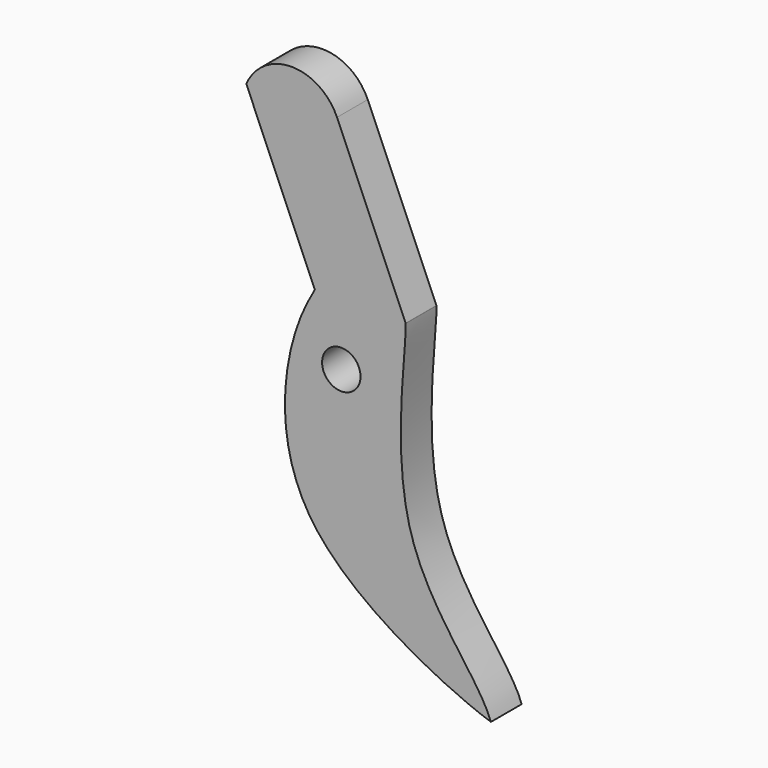
from build123d import *

# Parameters (mm, degrees)
F1_DEPTH = 6.35
F3_DEPTH = 6.35
F4_R     = 3.175
F5_DEPTH = 25.4


with BuildPart() as f1:
    # F0 (on Front) → F1 (new body)
    with BuildSketch(Plane.XZ):
        with BuildLine():
            Line((14.9751729332, -0.0525450014), (0, 0))
            add(Edge.make_bspline(
                [(0, 0), (-1.3668231297, -2.3331721875), (-5.2378895093, -10.0511172277), (-6.4457044175, -37.83273039), (22.8338454247, -51.3333554001), (29.0720630437, -53.3747412264)],
                knots=[0, 0, 0, 0, 0.2289680224, 0.5830056766, 1, 1, 1, 1], degree=3))
            add(Edge.make_bspline(
                [(14.9751729332, -0.0525450014), (15.2322824358, -3.22988805), (10.116460043, -33.133102304), (26.89550583, -47.4094833328), (29.0720630437, -53.3747412264)],
                knots=[0, 0, 0, 0, 0.5109782958, 1, 1, 1, 1], degree=3))
        make_face()
    extrude(amount=F1_DEPTH)

    # F2 (on face) → F3 (join)
    with BuildSketch(Plane.XZ.offset(6.35)):
        with BuildLine():
            Line((-11.3248755646, 26.2350494272), (0, 0))
            Line((0, 0), (1.3590909073, -2.1867099784))
            Line((1.3590909073, -2.1867099784), (14.9297209254, -2.1867099784))
            Line((14.9297209254, -2.1867099784), (14.9751729332, 0))
            Line((14.9751729332, 0), (3.6502973686, 26.2350494272))
            ThreePointArc((3.6502973686, 26.2350494272), (-3.837289098, 31.1583029026), (-11.3248755646, 26.2350494272))
        make_face()
    extrude(amount=-F3_DEPTH)

    # F4 (on face) → F5 (cut)
    with BuildSketch(Plane.XZ.offset(6.35)):
        with Locations((4.3634679168, -10.1833054796)):
            Circle(F4_R)
    extrude(amount=-F5_DEPTH, mode=Mode.SUBTRACT)


solid = f1.part
